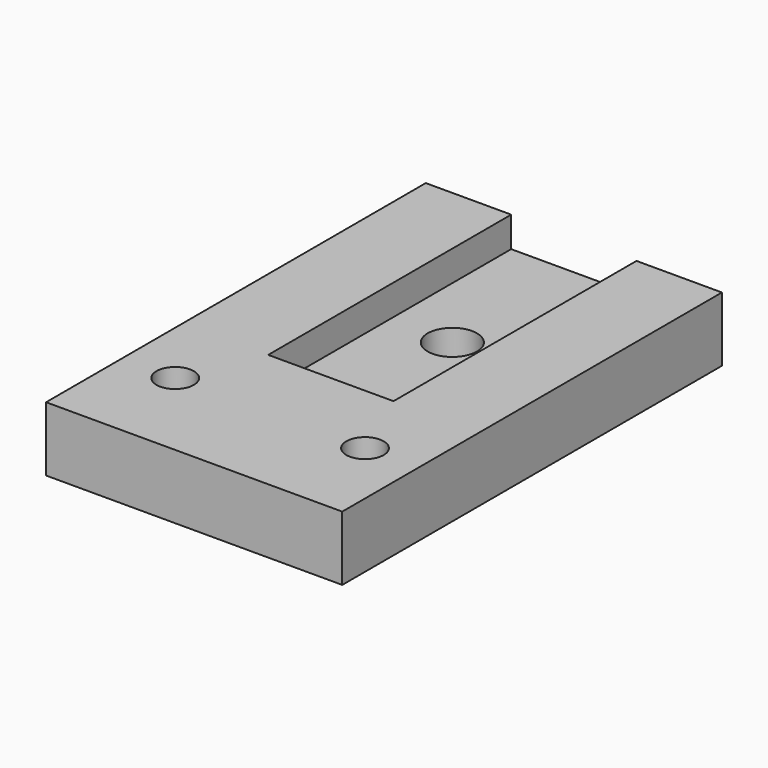
from build123d import *

# Parameters (mm, degrees)
F0_W     = 19.812
F0_H     = 31.75
F0_R     = 1.25
F1_DEPTH = 2.159
F3_D     = 3.3
F4_W     = 8.382
F4_H     = 20.32
F5_DEPTH = 2.032


with BuildPart() as f1:
    # F0 (on Top) → F1 (new body, symmetric)
    with BuildSketch(Plane.XY):
        with Locations((0, 9.525)):
            Rectangle(F0_W, F0_H)
        with Locations((-6.35, 0)):
            Circle(F0_R, mode=Mode.SUBTRACT)
        with Locations((6.35, 0)):
            Circle(F0_R, mode=Mode.SUBTRACT)
    extrude(amount=F1_DEPTH, both=True)

    # F3 (through all)
    with Locations(Plane.XY.offset(2.159)):
        with Locations((0, 15.24)):
            Hole(F3_D / 2)

    # F4 (on face) → F5 (cut)
    with BuildSketch(Plane.XY.offset(2.159)):
        with Locations((0, 15.24)):
            Rectangle(F4_W, F4_H)
    extrude(amount=-F5_DEPTH, mode=Mode.SUBTRACT)


solid = f1.part
